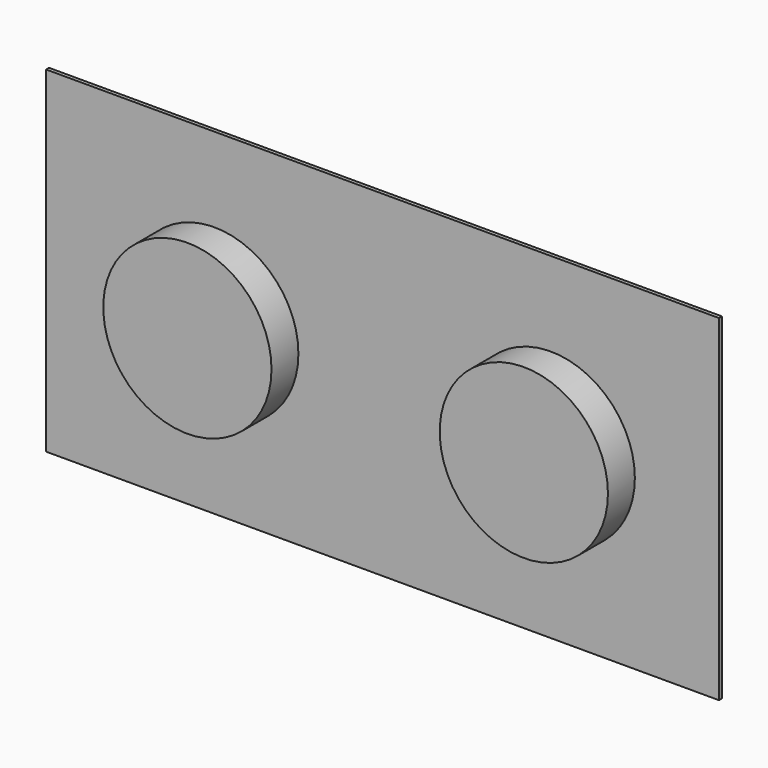
from build123d import *

# Parameters (mm, degrees)
F0_W     = 20
F0_H     = 10
F0_R     = 2.5
F1_DEPTH = 0.11
F2_R     = 2.5
F3_DEPTH = 1


with BuildPart() as f1:
    # F0 (on Front) → F1 (new body)
    with BuildSketch(Plane.XZ):
        with Locations((10, -5)):
            Rectangle(F0_W, F0_H)
        with Locations((5, -5)):
            Circle(F0_R, mode=Mode.SUBTRACT)
        with Locations((15, -5)):
            Circle(F0_R, mode=Mode.SUBTRACT)
    extrude(amount=F1_DEPTH)


with BuildPart() as f3:
    # F2 (on face) → F3 (new body)
    with BuildSketch(Plane.XZ.offset(0.11)):
        with Locations((5, -5)):
            Circle(F2_R)
        with Locations((15, -5)):
            Circle(F2_R)
    extrude(amount=F3_DEPTH)


solid = Compound([f1.part, f3.part])
